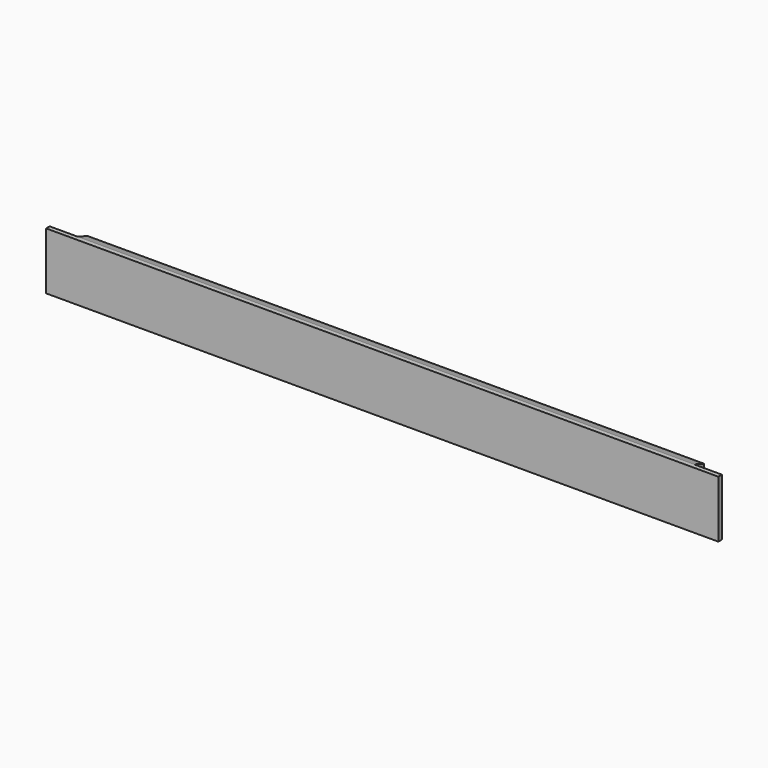
from build123d import *

# Parameters (mm, degrees)
F1_DEPTH = 830
F2_W     = 905
F2_H     = 77
F3_DEPTH = 6


with BuildPart() as f1:
    # F0 (on Right) → F1 (new body)
    with BuildSketch(Plane.YZ):
        Polygon((8.5, 32.906253), (-8.5, 39.093747), (-8.5, -32.906253), (8.5, -39.093747), align=None)
    extrude(amount=F1_DEPTH)

    # F2 (on face) → F3 (join)
    with BuildSketch(Plane.XZ.offset(8.5)):
        with Locations((415, 0.593747)):
            Rectangle(F2_W, F2_H)
    extrude(amount=F3_DEPTH)


solid = f1.part
